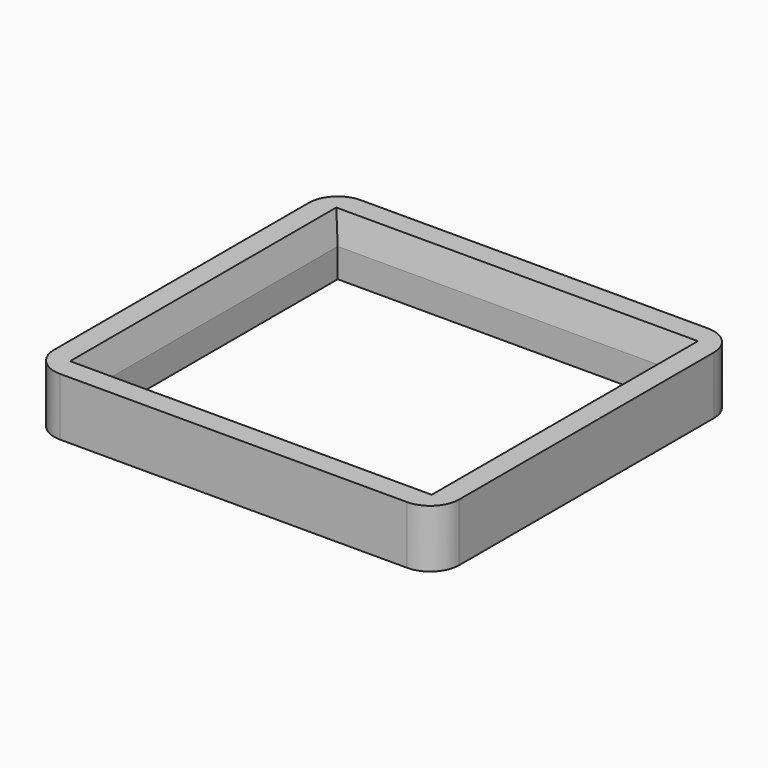
from build123d import *

# Parameters (mm, degrees)
F0_W     = 24
F0_H     = 2
F1_DEPTH = 4
F2_SIZE2 = 2
F2_SIZE  = 0.5
F3_R     = 2


with BuildPart() as f1:
    # F0 (on Top) → F1 (new body)
    with BuildSketch(Plane.XY):
        Polygon((-12, 13), (-14, 13), (-14, -13), (-12, -13), (-12, -11), (-12, 11), align=None)
        with Locations((0, 12)):
            Rectangle(F0_W, F0_H)
        Polygon((14, 13), (12, 13), (12, 11), (12, -11), (12, -13), (14, -13), align=None)
        with Locations((0, -12)):
            Rectangle(F0_W, F0_H)
    extrude(amount=F1_DEPTH)

    # F2
    f2_edges = [f1.edges().sort_by_distance(p)[0] for p in [
        (-12, 0, 4),
        (0, 11, 4),
        (12, 0, 4),
        (0, -11, 4),
    ]]
    f2_side = f1.faces().sort_by_distance((-13.617901, 0, 4))[0]
    chamfer(f2_edges, length=F2_SIZE, length2=F2_SIZE2, reference=f2_side)

    # F3
    f3_edges = [f1.edges().sort_by_distance(p)[0] for p in [
        (14, -13, 2),
        (-14, -13, 2),
        (-14, 13, 2),
        (14, 13, 2),
    ]]
    fillet(f3_edges, radius=F3_R)


solid = f1.part
